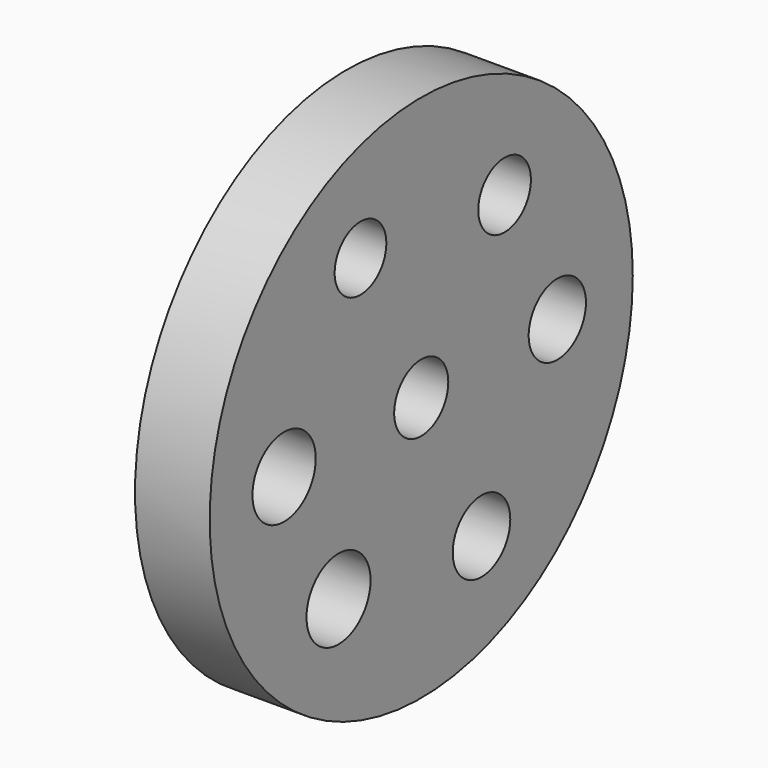
from build123d import *

# Parameters (mm, degrees)
F0_R     = 74.975589
F0_R_2   = 11.350197
F0_R_3   = 11.214072
F0_R_4   = 9.585365
F0_R_5   = 10.197686
F0_R_6   = 10.14693
F0_R_7   = 9.160163
F0_R_8   = 9.325907
F1_DEPTH = 21.173285


with BuildPart() as f1:
    # F0 (on Right) → F1 (new body)
    with BuildSketch(Plane.YZ):
        Circle(F0_R)
        with Locations((-29.315686, -38.301964)):
            Circle(F0_R_2, mode=Mode.SUBTRACT)
        with Locations((-48.60732, 0)):
            Circle(F0_R_3, mode=Mode.SUBTRACT)
        Circle(F0_R_4, mode=Mode.SUBTRACT)
        with Locations((21.359518, -43.24605)):
            Circle(F0_R_5, mode=Mode.SUBTRACT)
        with Locations((48.233286, 0)):
            Circle(F0_R_6, mode=Mode.SUBTRACT)
        with Locations((-21.525154, 43.58141)):
            Circle(F0_R_7, mode=Mode.SUBTRACT)
        with Locations((29.54302, 38.598983)):
            Circle(F0_R_8, mode=Mode.SUBTRACT)
    extrude(amount=F1_DEPTH)


solid = f1.part
